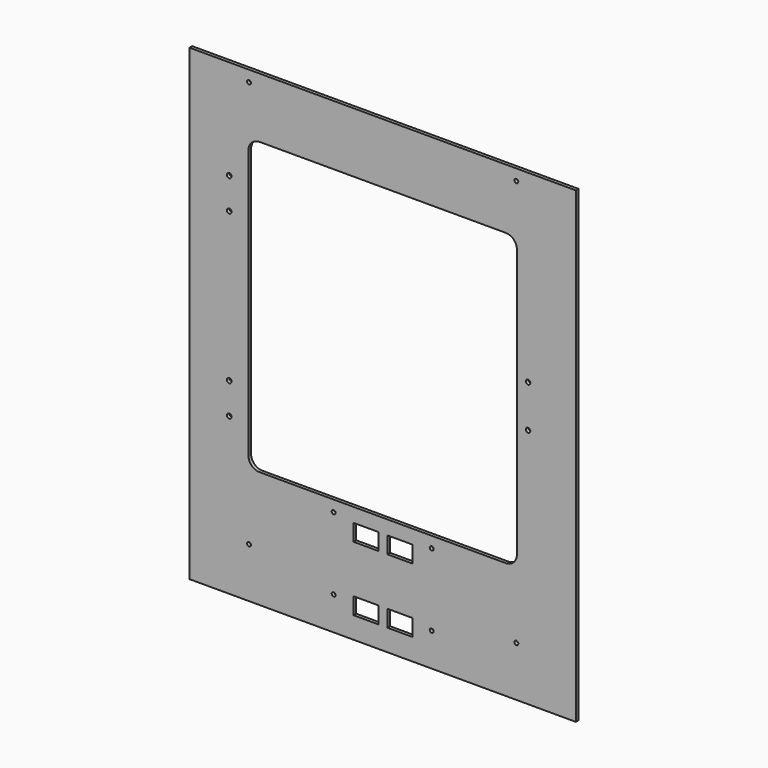
from build123d import *

# Parameters (mm, degrees)
SKETCH_W            = 347
SKETCH_H            = 420
PAD_DEPTH           = 3
SKETCH001_R         = 1.75
POCKET_DEPTH        = 3.001
POCKET001_DEPTH     = 5
SKETCH003_R         = 1.75
POCKET002_DEPTH     = 3.001
SKETCH005_W         = 22.5
SKETCH005_H         = 15
POCKET003_DEPTH     = 3
LINEARPATTERN_COUNT = 2
LINEARPATTERN_PITCH = 58
SKETCH006_R         = 2.1
SKETCH006_R_2       = 2
POCKET004_DEPTH     = 3.001


with BuildPart() as part:
    # Sketch → Pad (new body)
    with BuildSketch(Plane.XZ):
        with Locations((173.5, 210)):
            Rectangle(SKETCH_W, SKETCH_H)
    extrude(amount=PAD_DEPTH)

    # Sketch001 (on Face6 of Pad) → Pocket (cut, through all)
    with BuildSketch(Plane.XZ.offset(3)):
        with Locations((53.5, 45)):
            Circle(SKETCH001_R)
        with Locations((293.5, 45)):
            Circle(SKETCH001_R)
        with Locations((293.5, 410)):
            Circle(SKETCH001_R)
        with Locations((53.5, 410)):
            Circle(SKETCH001_R)
    extrude(amount=-POCKET_DEPTH, mode=Mode.SUBTRACT)

    # Sketch002 (on Face5 of Pocket) → Pocket001 (cut)
    with BuildSketch(Plane.XZ.offset(3)):
        with BuildLine():
            Line((53, 356), (53, 115))
            ThreePointArc((53, 115), (55.928932, 107.928932), (63, 105))
            Line((63, 105), (284, 105))
            ThreePointArc((284, 105), (291.071068, 107.928932), (294, 115))
            Line((294, 115), (294, 356))
            ThreePointArc((294, 356), (291.071068, 363.071068), (284, 366))
            Line((284, 366), (63, 366))
            ThreePointArc((63, 366), (55.928932, 363.071068), (53, 356))
        make_face()
    extrude(amount=-POCKET001_DEPTH, mode=Mode.SUBTRACT)

    # Sketch003 (on Face5 of Pocket001) → Pocket002 (cut, through all)
    with BuildSketch(Plane.XZ.offset(3)):
        with Locations((129.5, 30)):
            Circle(SKETCH003_R)
        with Locations((129.5, 95)):
            Circle(SKETCH003_R)
        with Locations((217.5, 95)):
            Circle(SKETCH003_R)
        with Locations((217.5, 30)):
            Circle(SKETCH003_R)
    extrude(amount=-POCKET002_DEPTH, mode=Mode.SUBTRACT)

    # Sketch005 (on Face5 of Pocket002) → Pocket003 (cut)
    with BuildSketch(Plane.XZ.offset(3)):
        with Locations((158.5, 84.9)):
            Rectangle(SKETCH005_W, SKETCH005_H)
        with Locations((189, 84.9)):
            Rectangle(SKETCH005_W, SKETCH005_H)
    pocket003 = extrude(amount=-POCKET003_DEPTH, mode=Mode.SUBTRACT)

    # LinearPattern: Pocket003 ×2
    with Locations(*[(0, 0, -i * LINEARPATTERN_PITCH) for i in range(1, LINEARPATTERN_COUNT)]):
        add(pocket003, mode=Mode.SUBTRACT)

    # Sketch006 (on Face5 of LinearPattern) → Pocket004 (cut, through all)
    with BuildSketch(Plane.XZ.offset(3)):
        with Locations((35.75, 330.5)):
            Circle(SKETCH006_R)
        with Locations((35.75, 302.5)):
            Circle(SKETCH006_R)
        with Locations((35.75, 168.5)):
            Circle(SKETCH006_R)
        with Locations((35.75, 140.5)):
            Circle(SKETCH006_R)
        with Locations((304, 254.5)):
            Circle(SKETCH006_R_2)
        with Locations((304, 216.5)):
            Circle(SKETCH006_R_2)
    extrude(amount=-POCKET004_DEPTH, mode=Mode.SUBTRACT)


solid = part.part
